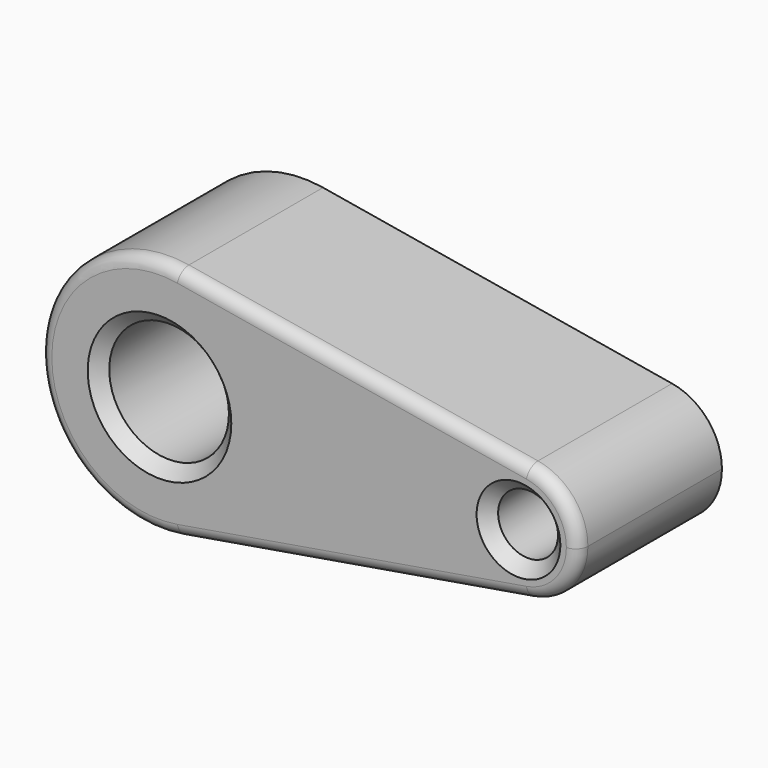
from build123d import *

# Parameters (mm, degrees)
F0_R     = 25.4
F0_R_2   = 12.7
F1_DEPTH = 76.2
F2_SIZE  = 5.08
F3_SIZE  = 5.08
F4_R     = 5.08


with BuildPart() as f1:
    # F0 (on Front) → F1 (new body)
    with BuildSketch(Plane.XZ):
        with BuildLine():
            ThreePointArc((8.466667, -50.089475), (38.799141, -32.791259), (50.8, 0))
            ThreePointArc((50.8, 0), (38.799141, 32.791259), (8.466667, 50.089475))
            ThreePointArc((8.466667, 50.089475), (-50.8, 0), (8.466667, -50.089475))
        make_face()
        Circle(F0_R, mode=Mode.SUBTRACT)
        with BuildLine():
            ThreePointArc((8.466667, 50.089475), (38.799141, 32.791259), (50.8, 0))
            ThreePointArc((50.8, 0), (38.799141, -32.791259), (8.466667, -50.089475))
            Line((8.466667, -50.089475), (156.633333, -25.044738))
            ThreePointArc((156.633333, -25.044738), (127, 0), (156.633333, 25.044738))
            Line((156.633333, 25.044738), (8.466667, 50.089475))
        make_face()
        with BuildLine():
            ThreePointArc((177.8, 0), (171.79957, 16.395629), (156.633333, 25.044738))
            ThreePointArc((156.633333, 25.044738), (127, 0), (156.633333, -25.044738))
            ThreePointArc((156.633333, -25.044738), (171.79957, -16.395629), (177.8, 0))
        make_face()
        with Locations((152.4, 0)):
            Circle(F0_R_2, mode=Mode.SUBTRACT)
    extrude(amount=-F1_DEPTH)

    # F2
    f2_edges = [f1.edges().sort_by_distance(p)[0] for p in [
        (-25.4, 0, 0),
        (-25.4, 76.2, 0),
    ]]
    chamfer(f2_edges, length=F2_SIZE)

    # F3
    f3_edges = [f1.edges().sort_by_distance(p)[0] for p in [
        (139.7, 76.2, 0),
        (139.7, 0, 0),
    ]]
    chamfer(f3_edges, length=F3_SIZE)

    # F4
    f4_edges = [f1.edges().sort_by_distance(p)[0] for p in [
        (82.55, 0, -37.567107),
    ]]
    fillet(f4_edges, radius=F4_R)


solid = f1.part
